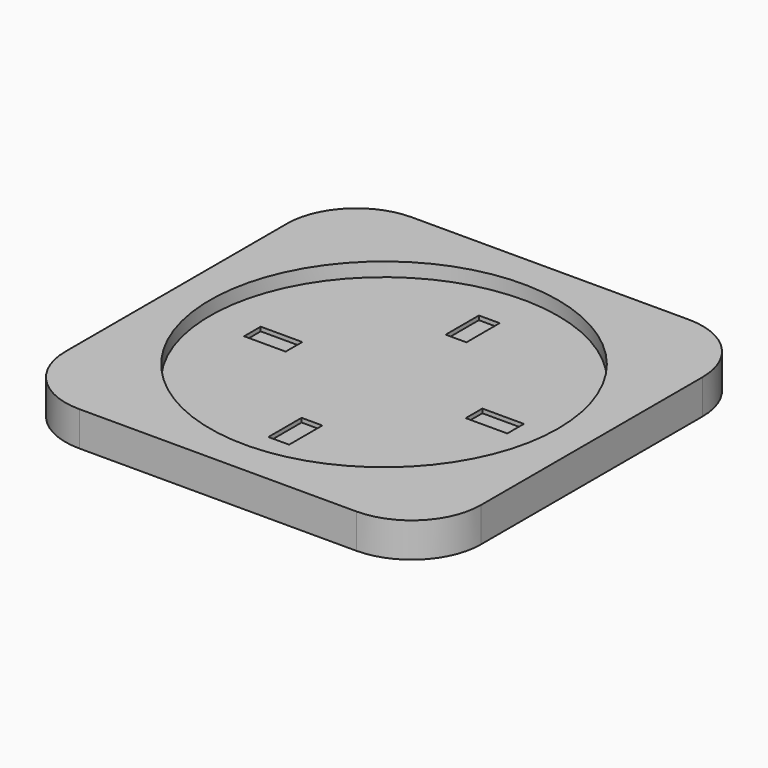
from build123d import *

# Parameters (mm, degrees)
F0_W     = 60
F0_H     = 60
F1_DEPTH = 5
F2_R     = 25.12858
F3_DEPTH = 2
F4_R     = 10
F5_W     = 6
F5_H     = 3
F5_W_2   = 3
F5_H_2   = 6
F6_DEPTH = 0.6


with BuildPart() as f1:
    # F0 (on Top) → F1 (new body)
    with BuildSketch(Plane.XY):
        Rectangle(F0_W, F0_H)
    extrude(amount=F1_DEPTH)

    # F2 (on face) → F3 (cut)
    with BuildSketch(Plane.XY.offset(5)):
        Circle(F2_R)
    extrude(amount=-F3_DEPTH, mode=Mode.SUBTRACT)

    # F4
    f4_edges = [f1.edges().sort_by_distance(p)[0] for p in [
        (30, 30, 2.5),
        (30, -30, 2.5),
        (-30, -30, 2.5),
        (-30, 30, 2.5),
    ]]
    fillet(f4_edges, radius=F4_R)

    # F5 (on face) → F6 (cut)
    with BuildSketch(Plane.XY.offset(3)):
        with Locations((16, 0)):
            Rectangle(F5_W, F5_H)
        with Locations((0, 16)):
            Rectangle(F5_W_2, F5_H_2)
        with Locations((-16, 0)):
            Rectangle(F5_W, F5_H)
        with Locations((0, -16)):
            Rectangle(F5_W_2, F5_H_2)
    extrude(amount=-F6_DEPTH, mode=Mode.SUBTRACT)


solid = f1.part
